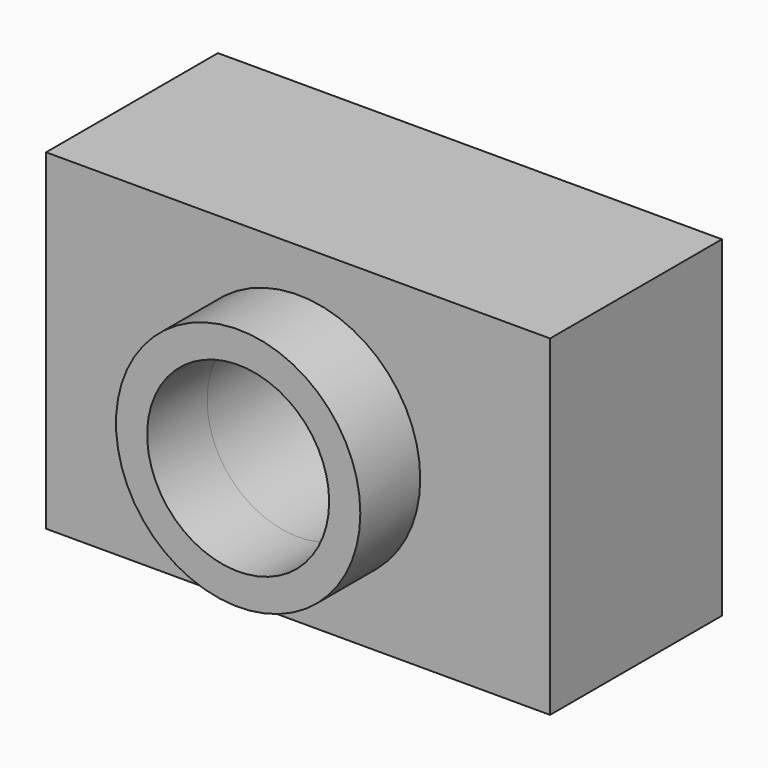
from build123d import *

# Parameters (mm, degrees)
F0_W          = 76.034322
F0_H          = 32.407026
F1_DEPTH      = 25
F1_DEPTH_BACK = 25
F2_R          = 18.431692
F2_R_2        = 13.728348
F3_DEPTH      = 11.3
F3_FACE_R     = 13.728348
F4_DEPTH      = 32.407027


with BuildPart() as f1:
    # F0 (on Top) → F1 (new body, two sides)
    with BuildSketch(Plane.XY) as f1_sk:
        Rectangle(F0_W, F0_H)
    extrude(amount=F1_DEPTH)
    extrude(f1_sk.sketch, amount=-F1_DEPTH_BACK)

    # F2 (on face) → F3 (join)
    with BuildSketch(Plane.XZ.offset(16.203513)):
        Circle(F2_R)
        Circle(F2_R_2, mode=Mode.SUBTRACT)
    extrude(amount=F3_DEPTH)

    # F3_face (on face) → F4 (cut, through all)
    with BuildSketch(Plane.XZ.offset(16.203513)):
        Circle(F3_FACE_R)
    extrude(amount=-F4_DEPTH, mode=Mode.SUBTRACT)


solid = f1.part
